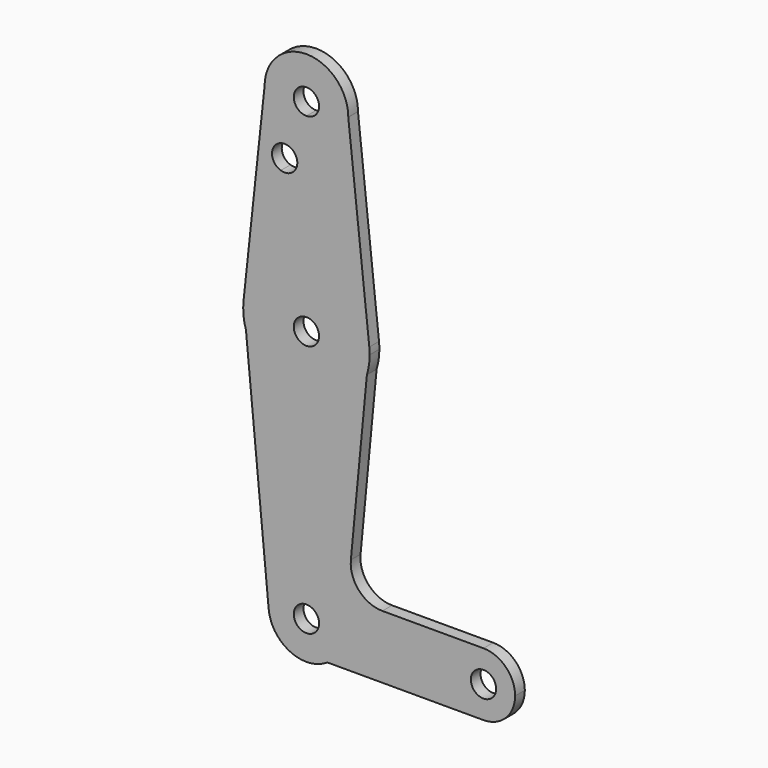
from build123d import *

# Parameters (mm, degrees)
F0_R     = 3.175
F1_DEPTH = 3.048


with BuildPart() as f1:
    # F0 (on Front) → F1 (new body)
    with BuildSketch(Plane.XZ):
        with BuildLine():
            ThreePointArc((15.17903698, -4.6489204511), (15.700045176, -2.350363051), (15.875, 0))
            ThreePointArc((15.875, 0), (15.8522453308, 0.849672273), (15.7840465548, 1.6969087651))
            Line((15.7840465548, 1.6969087651), (15.17903698, -4.6489204511))
        make_face()
        with BuildLine():
            Line((15.17903698, -4.6489204511), (15.7840465548, 1.6969087651))
            ThreePointArc((15.7840465548, 1.6969087651), (10.6084211444, 11.8100391965), (0, 15.875))
            ThreePointArc((0, 15.875), (-3.2905755869, 15.5302201307), (-6.4382189885, 14.5108566686))
            ThreePointArc((-6.4382189885, 14.5108566686), (-12.8260121116, 9.3546265726), (-15.7840465548, 1.6969087651))
            Line((-15.7840465548, 1.6969087651), (-15.17903698, -4.6489204511))
            ThreePointArc((-15.17903698, -4.6489204511), (0, -15.875), (15.17903698, -4.6489204511))
        make_face()
        with BuildLine():
            ThreePointArc((3.175, 0), (-2.2450640303, -2.2450640303), (0, 3.175))
            ThreePointArc((0, 3.175), (2.2450640303, 2.2450640303), (3.175, 0))
        make_face(mode=Mode.SUBTRACT)
        with BuildLine():
            ThreePointArc((0, 15.875), (10.6084211444, 11.8100391965), (15.7840465548, 1.6969087651))
            Line((15.7840465548, 1.6969087651), (10.5090404553, 50.7631541419))
            ThreePointArc((10.5090404553, 50.7631541419), (7.4180210271, 43.3559249768), (0, 40.290894952))
            Line((0, 40.290894952), (0, 15.875))
        make_face()
        with BuildLine():
            Line((11.1548588658, -46.8577517023), (15.17903698, -4.6489204511))
            ThreePointArc((15.17903698, -4.6489204511), (0, -15.875), (-15.17903698, -4.6489204511))
            Line((-15.17903698, -4.6489204511), (-9.4820033821, -64.4040115388))
            ThreePointArc((-9.4820033821, -64.4040115388), (-0.4525167321, -53.9857552267), (9.525, -63.5))
            ThreePointArc((9.525, -63.5), (8.392737967, -68.0041730003), (5.2651418547, -71.4375))
            Line((5.2651418547, -71.4375), (44.45, -71.4375))
            ThreePointArc((44.45, -71.4375), (36.8345778139, -65.7381356477), (40.1553611674, -56.824673525))
            ThreePointArc((40.1553611674, -56.824673525), (42.2118643523, -55.8845778139), (44.45, -55.5625))
            Line((44.45, -55.5625), (19.069171022, -55.5625))
            ThreePointArc((19.069171022, -55.5625), (13.18680373, -52.9605179352), (11.1548588658, -46.8577517023))
        make_face()
        with BuildLine():
            ThreePointArc((-6.4382189885, 14.5108566686), (-3.2905755869, 15.5302201307), (0, 15.875))
            Line((0, 15.875), (0, 40.290894952))
            ThreePointArc((0, 40.290894952), (-7.4310594436, 43.3689405564), (-10.509105048, 50.8))
            Line((-10.509105048, 50.8), (-15.7840465548, 1.6969087651))
            ThreePointArc((-15.7840465548, 1.6969087651), (-12.8260121116, 9.3546265726), (-6.4382189885, 14.5108566686))
        make_face()
        with BuildLine():
            ThreePointArc((-2.2886555724, 36.5252), (-3.5946469911, 33.9586007085), (-6.4382189885, 33.5034701729))
            ThreePointArc((-6.4382189885, 33.5034701729), (-7.3326641537, 39.0917992915), (-2.2886555724, 36.5252))
        make_face(mode=Mode.SUBTRACT)
        with BuildLine():
            ThreePointArc((0, 40.290894952), (7.4180210271, 43.3559249768), (10.5090404553, 50.7631541419))
            ThreePointArc((10.5090404553, 50.7631541419), (10.5090888998, 50.7815770427), (10.509105048, 50.8))
            ThreePointArc((10.509105048, 50.8), (0, 61.309105048), (-10.509105048, 50.8))
            ThreePointArc((-10.509105048, 50.8), (-7.4310594436, 43.3689405564), (0, 40.290894952))
        make_face()
        with BuildLine():
            ThreePointArc((3.175, 50.8), (2.2450640303, 48.5549359697), (0, 47.625))
            ThreePointArc((0, 47.625), (-2.2450640303, 53.0450640303), (3.175, 50.8))
        make_face(mode=Mode.SUBTRACT)
        with BuildLine():
            ThreePointArc((-15.7840465548, 1.6969087651), (-15.8033389701, -1.5066858979), (-15.17903698, -4.6489204511))
            Line((-15.17903698, -4.6489204511), (-15.7840465548, 1.6969087651))
        make_face()
        with BuildLine():
            ThreePointArc((9.525, -63.5), (-0.4525167321, -53.9857552267), (-9.4820033821, -64.4040115388))
            ThreePointArc((-9.4820033821, -64.4040115388), (-4.1003622119, -72.0972469274), (5.2651418547, -71.4375))
            ThreePointArc((5.2651418547, -71.4375), (8.392737967, -68.0041730003), (9.525, -63.5))
        make_face()
        with Locations((0, -63.5)):
            Circle(F0_R, mode=Mode.SUBTRACT)
        with BuildLine():
            Line((40.1553611674, -56.824673525), (44.45, -55.5625))
            ThreePointArc((44.45, -55.5625), (42.2118643523, -55.8845778139), (40.1553611674, -56.824673525))
        make_face()
        with BuildLine():
            ThreePointArc((52.3875, -63.5), (50.0626600757, -57.8873399243), (44.45, -55.5625))
            Line((44.45, -55.5625), (40.1553611674, -56.824673525))
            ThreePointArc((40.1553611674, -56.824673525), (36.8345778139, -65.7381356477), (44.45, -71.4375))
            ThreePointArc((44.45, -71.4375), (50.0626600757, -69.1126600757), (52.3875, -63.5))
        make_face()
        with Locations((44.45, -63.5)):
            Circle(F0_R, mode=Mode.SUBTRACT)
    extrude(amount=F1_DEPTH)


solid = f1.part
